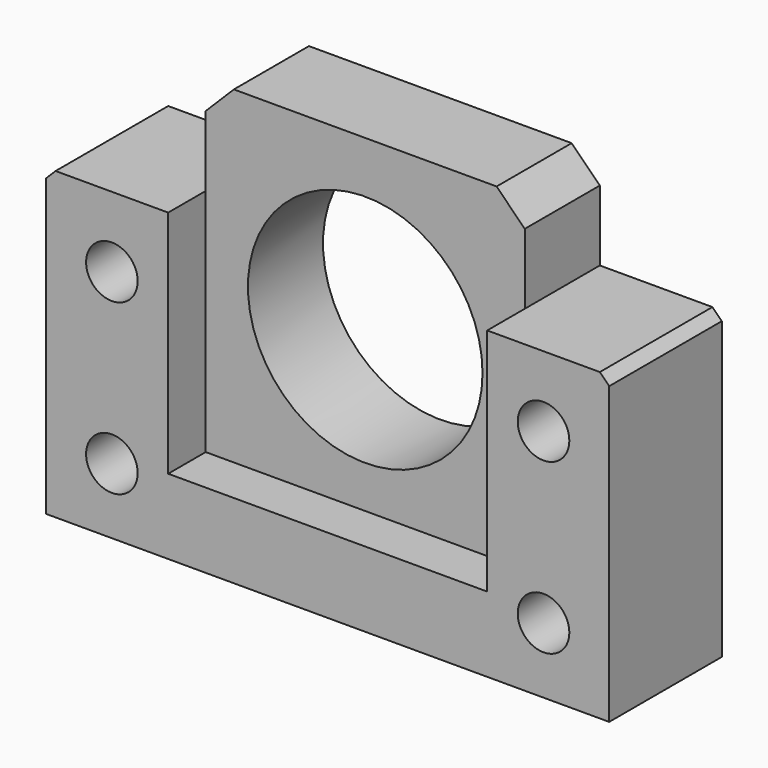
from build123d import *

# Parameters (mm, degrees)
F1_DEPTH = 7.5
F2_R     = 12.5
F2_R_2   = 2.75
F3_DEPTH = 15
F4_SIZE  = 3
F5_SIZE  = 1
F6_W     = 31
F6_H     = 8.371188
F7_DEPTH = 5


with BuildPart() as f1:
    # F0 (on Front) → F1 (new body, symmetric)
    with BuildSketch(Plane.XZ):
        Polygon((17, 11), (17, 21.5), (-17, 21.5), (-17, 11), (-30, 11), (-30, -21.5), (30, -21.5), (30, 11), align=None)
    extrude(amount=F1_DEPTH, both=True)

    # F2 (on face) → F3 (cut)
    with BuildSketch(Plane.XZ.offset(7.5)):
        with Locations((0, 3.5)):
            Circle(F2_R)
        with Locations((-23, 3.5)):
            Circle(F2_R_2)
        with Locations((23, 3.5)):
            Circle(F2_R_2)
        with Locations((-23, -14.5)):
            Circle(F2_R_2)
        with Locations((23, -14.5)):
            Circle(F2_R_2)
    extrude(amount=-F3_DEPTH, mode=Mode.SUBTRACT)

    # F4
    f4_edges = [f1.edges().sort_by_distance(p)[0] for p in [
        (17, 0, 21.5),
        (-17, 0, 21.5),
    ]]
    chamfer(f4_edges, length=F4_SIZE)

    # F5
    f5_edges = [f1.edges().sort_by_distance(p)[0] for p in [
        (-30, 0, 11),
        (30, 0, 11),
    ]]
    chamfer(f5_edges, length=F5_SIZE)

    # F6 (on face) → F7 (cut)
    with BuildSketch(Plane.XZ.offset(7.5)):
        Polygon((17, -13.5), (17, 20.5), (15.5, 20.5), (-15.5, 20.5), (-17, 20.5), (-17, -13.5), align=None)
        with Locations((0, 24.685594)):
            Rectangle(F6_W, F6_H)
    extrude(amount=-F7_DEPTH, mode=Mode.SUBTRACT)


solid = f1.part
